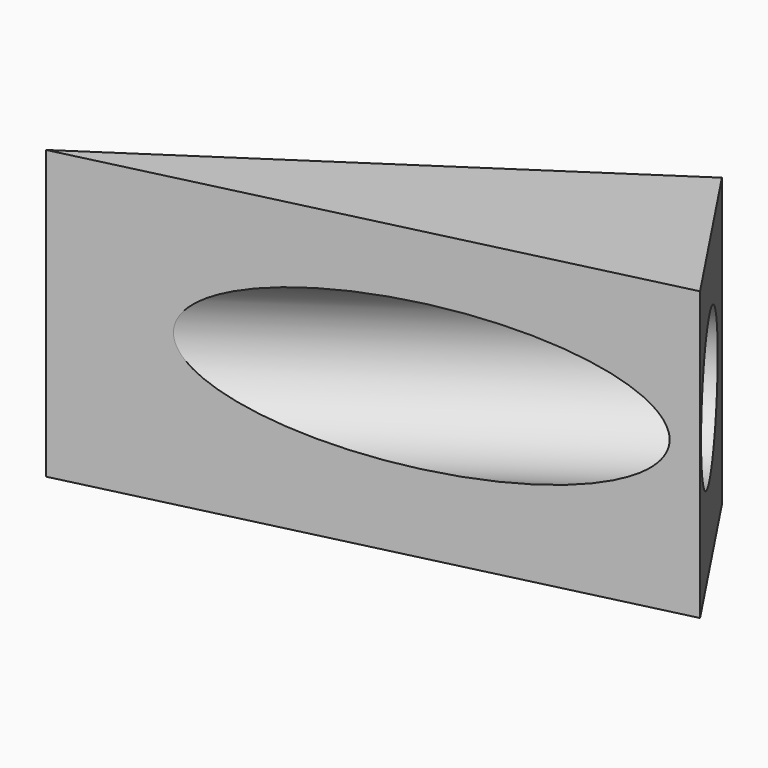
from build123d import *

# Parameters (mm, degrees)
F1_DEPTH = 44.45
F2_R     = 11.3117348184
F3_DEPTH = 81.8768842258


with BuildPart() as f1:
    # F0 (on Top) → F1 (new body)
    with BuildSketch(Plane.XY):
        Polygon((68.2080239058, 45.2915653586), (0, 0), (84.7026997119, 20.45097456), align=None)
    extrude(amount=F1_DEPTH)

    # F2 (on face) → F3 (cut, through all)
    with BuildSketch(Plane(origin=(68.2080239058, 45.2915653586, 0), x_dir=(-0.5531734501, 0.8330661043, 0), z_dir=(0.8330661043, 0.5531734501, 0))):
        with Locations((-17.1182709287, 23.368)):
            Circle(F2_R)
    extrude(amount=-F3_DEPTH, mode=Mode.SUBTRACT)


solid = f1.part
